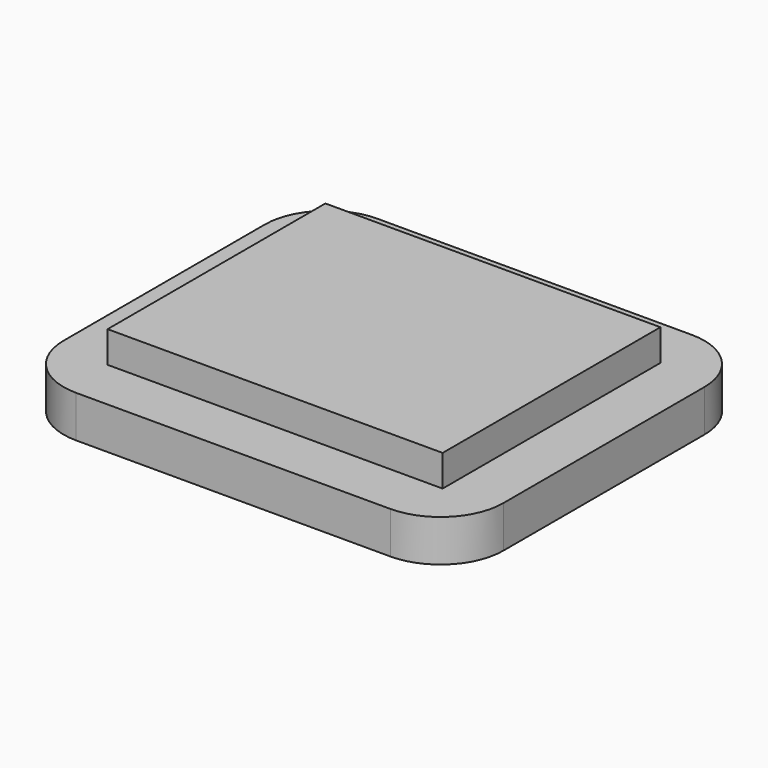
from build123d import *

# Parameters (mm, degrees)
SKETCH_W     = 21
SKETCH_H     = 18
PAD_DEPTH    = 2
SKETCH001_W  = 16
SKETCH001_H  = 13
PAD001_DEPTH = 1.5
FILLET_R     = 3


with BuildPart() as part:
    # Sketch → Pad (new body)
    with BuildSketch(Plane.XY):
        with Locations((-10.5, 9)):
            Rectangle(SKETCH_W, SKETCH_H)
    extrude(amount=PAD_DEPTH)

    # Sketch001 (on Face6 of Pad) → Pad001 (join)
    with BuildSketch(Plane.XY.offset(2)):
        with Locations((-10.5, 9)):
            Rectangle(SKETCH001_W, SKETCH001_H)
    extrude(amount=PAD001_DEPTH)

    # Fillet
    fillet_edges = [part.edges().sort_by_distance(p)[0] for p in [
        (0, 18, 1),
        (0, 0, 1),
        (-21, 0, 1),
        (-21, 18, 1),
    ]]
    fillet(fillet_edges, radius=FILLET_R)


solid = part.part
